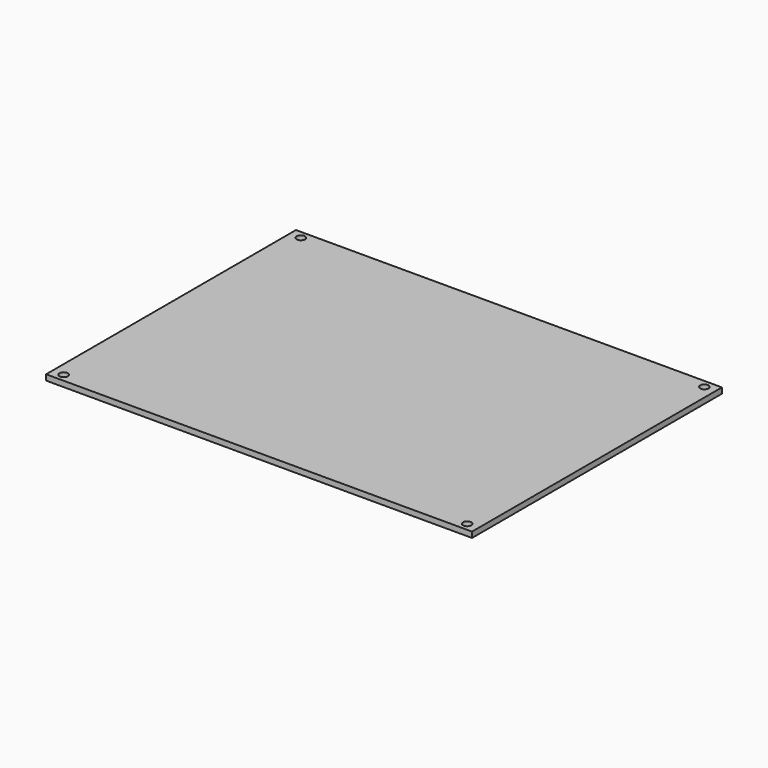
from build123d import *

# Parameters (mm, degrees)
F2_W     = 192.786
F2_H     = 141.3764
F4_DEPTH = 2.54
F3_R     = 1.905
F5_DEPTH = 25.4


with BuildPart() as f4:
    # F2 (on Top) → F4 (new body)
    with BuildSketch(Plane.XY):
        with Locations((-4.773771, -23.129591)):
            Rectangle(F2_W, F2_H)
    extrude(amount=F4_DEPTH)

    # F3 (on Top) → F5 (cut)
    with BuildSketch(Plane.XY):
        with Locations((-96.086771, 43.964509)):
            Circle(F3_R)
        with Locations((86.539229, 43.964509)):
            Circle(F3_R)
        with Locations((-96.086771, -90.223691)):
            Circle(F3_R)
        with Locations((86.539229, -90.223691)):
            Circle(F3_R)
    extrude(amount=F5_DEPTH, mode=Mode.SUBTRACT)


solid = f4.part
